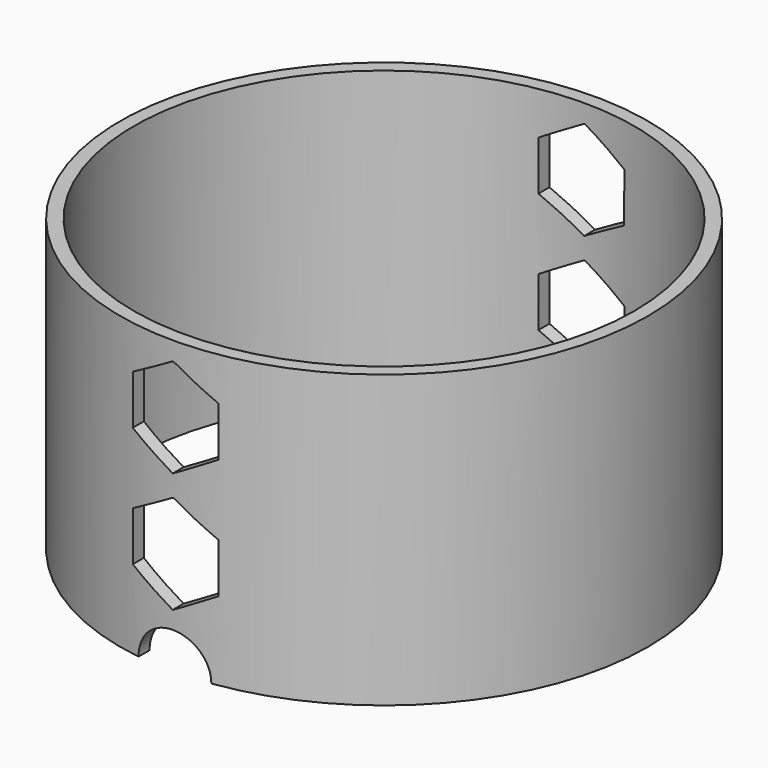
from build123d import *

# Parameters (mm, degrees)
F0_R     = 46.0375
F0_R_2   = 43.65625
F1_DEPTH = 50.8
F3_R     = 6.35
F4_DEPTH = 5.588
F6_DEPTH = 92.5205


with BuildPart() as f1:
    # F0 (on Top) → F1 (new body)
    with BuildSketch(Plane.XY):
        Circle(F0_R)
        Circle(F0_R_2, mode=Mode.SUBTRACT)
    extrude(amount=-F1_DEPTH)

    # F3 (on offset) → F4 (cut)
    with BuildSketch(Plane.XZ.offset(46.482)):
        with Locations((0, -50.8)):
            Circle(F3_R)
    extrude(amount=-F4_DEPTH, mode=Mode.SUBTRACT)

    # F5 (on offset) → F6 (cut, through all)
    with BuildSketch(Plane.XZ.offset(46.482)):
        Polygon((-0.034585, -20.435439), (7.456778, -16.150234), (7.491364, -7.51992), (0.034585, -3.174812), (-7.456778, -7.460017), (-7.491364, -16.090331), align=None)
        Polygon((7.456778, -37.105234), (7.491364, -28.47492), (0.034585, -24.129812), (-7.456778, -28.415017), (-7.491364, -37.045331), (-0.034585, -41.390439), align=None)
    extrude(amount=-F6_DEPTH, mode=Mode.SUBTRACT)


solid = f1.part
